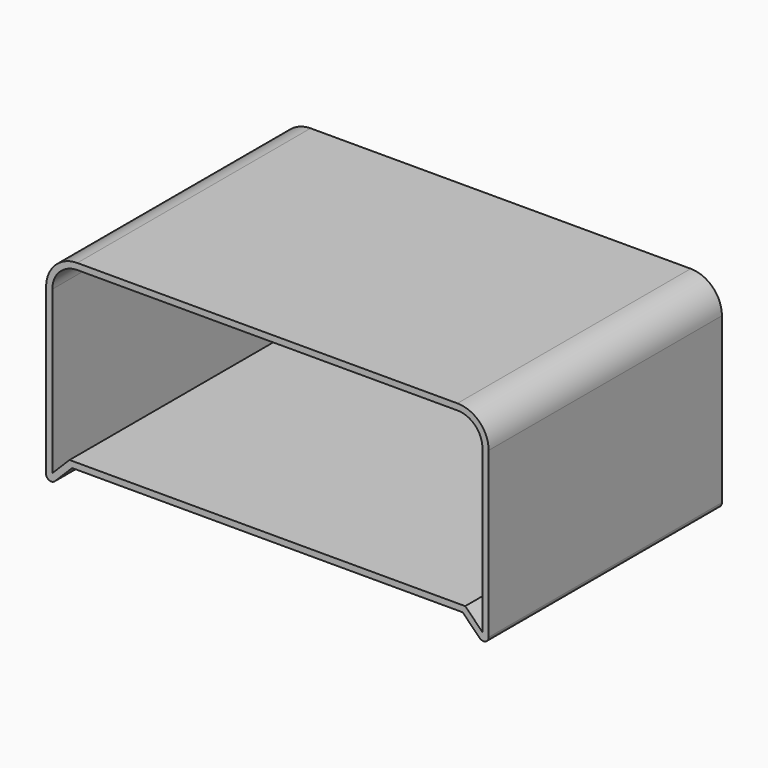
from build123d import *

# Parameters (mm, degrees)
F1_DEPTH = 56
F2_R     = 1
F3_R     = 6
F5_DEPTH = 99.1


with BuildPart() as f1:
    # F0 (on Front) → F1 (new body)
    with BuildSketch(Plane.XZ):
        Polygon((42.5, 17.5), (-42.5, 17.5), (-42.5, -17.5), (-37.5, -17.5), (37.5, -17.5), (42.5, -17.5), align=None)
        Polygon((-37.5, -17.5), (-42.5, -17.5), (-42.5, -22.5), align=None)
        Polygon((42.5, -22.5), (42.5, -17.5), (37.5, -17.5), align=None)
    extrude(amount=F1_DEPTH)

    # F2
    f2_edges = [f1.edges().sort_by_distance(p)[0] for p in [
        (-42.5, -28, -22.5),
        (42.5, -28, -22.5),
    ]]
    fillet(f2_edges, radius=F2_R)

    # F3
    f3_edges = [f1.edges().sort_by_distance(p)[0] for p in [
        (-42.5, -28, 17.5),
        (42.5, -28, 17.5),
    ]]
    fillet(f3_edges, radius=F3_R)

    # F4 (on face) → F5 (cut)
    with BuildSketch(Plane.XZ.offset(56)):
        with BuildLine():
            Line((-37.997056, -16.3), (37.997056, -16.3))
            Line((37.997056, -16.3), (41.3, -19.602944))
            Line((41.3, -19.602944), (41.3, 11.5))
            ThreePointArc((41.3, 11.5), (39.894113, 14.894113), (36.5, 16.3))
            Line((36.5, 16.3), (-36.5, 16.3))
            ThreePointArc((-36.5, 16.3), (-39.894113, 14.894113), (-41.3, 11.5))
            Line((-41.3, 11.5), (-41.3, -19.602944))
            Line((-41.3, -19.602944), (-37.997056, -16.3))
        make_face()
    extrude(amount=-F5_DEPTH, mode=Mode.SUBTRACT)


solid = f1.part
